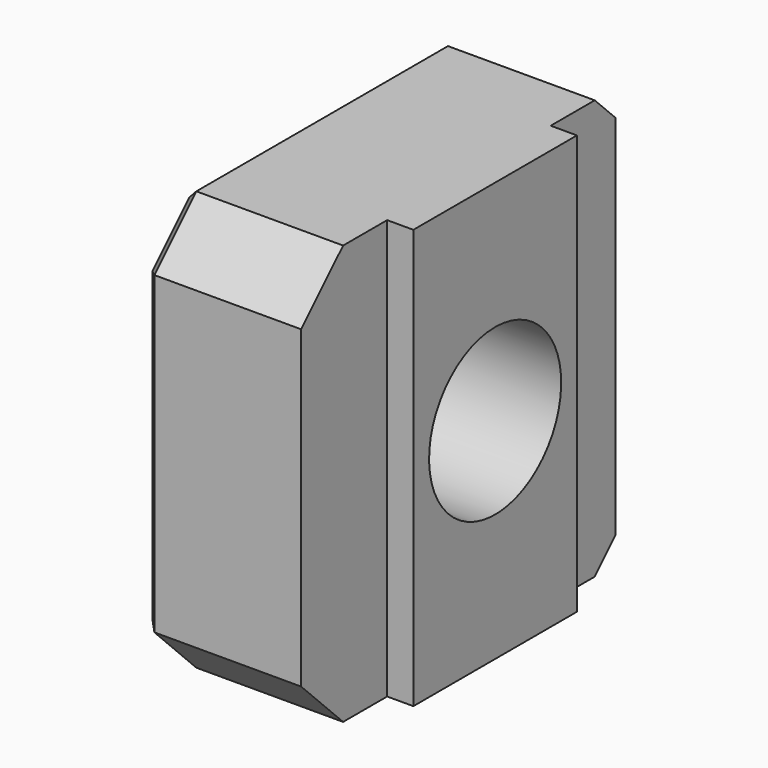
from build123d import *

# Parameters (mm, degrees)
BOX033_W              = 10
BOX033_H              = 10
BOX033_DEPTH          = 18
CYLINDER011_R         = 3.15
CYLINDER011_DEPTH     = 10
CYLINDER012_R         = 6
CYLINDER012_DEPTH     = 10
BOX026_W              = 6
BOX026_H              = 16
BOX026_DEPTH          = 16
BOX027_W              = 1
BOX027_H              = 7.8
BOX027_DEPTH          = 16
CHAMFER006006011_SIZE = 0.99
CHAMFER006006012_SIZE = 2
CHAMFER006006013_SIZE = 0.4


with BuildPart() as cube032:
    # Box033 → Box033 (new body)
    with BuildSketch(Plane(origin=(-3.5, 22, -12.5), x_dir=(1, 0, 0), z_dir=(0, 0, 1))):
        with Locations((5, 5)):
            Rectangle(BOX033_W, BOX033_H)
    extrude(amount=BOX033_DEPTH)


with BuildPart() as cylinder011:
    # Cylinder011 → Cylinder011 (new body)
    with BuildSketch(Plane(origin=(2, 15, 8), x_dir=(0, 0, 1), z_dir=(-1, 0, 0))):
        Circle(CYLINDER011_R)
    extrude(amount=CYLINDER011_DEPTH)


with BuildPart() as fusion005:
    # Cylinder012 → Cylinder012 (new body)
    with BuildSketch(Plane(origin=(-5, 15, 8), x_dir=(0, 0, 1), z_dir=(-1, 0, 0))):
        Circle(CYLINDER012_R)
    extrude(amount=CYLINDER012_DEPTH)

    # Fusion005: union Cylinder011
    add(cylinder011.part)


with BuildPart() as cube025:
    # Box026 → Box026 (new body)
    with BuildSketch(Plane(origin=(-6, 7, 0), x_dir=(1, 0, 0), z_dir=(0, 0, 1))):
        with Locations((3, 8)):
            Rectangle(BOX026_W, BOX026_H)
    extrude(amount=BOX026_DEPTH)


with BuildPart() as cut002004005004:
    # Box027 → Box027 (new body)
    with BuildSketch(Plane(origin=(0, 11.1, 0), x_dir=(1, 0, 0), z_dir=(0, 0, 1))):
        with Locations((0.5, 3.9)):
            Rectangle(BOX027_W, BOX027_H)
    extrude(amount=BOX027_DEPTH)

    # Fusion006: union Cube025
    add(cube025.part)

    # Cut002004002: cut Fusion005
    add(fusion005.part, mode=Mode.SUBTRACT)

    # Chamfer006006011
    chamfer006006011_edges = [cut002004005004.edges().sort_by_distance(p)[0] for p in [
        (-6, 15, 2),
    ]]
    chamfer(chamfer006006011_edges, length=CHAMFER006006011_SIZE)

    # Chamfer006006012
    chamfer006006012_edges = [cut002004005004.edges().sort_by_distance(p)[0] for p in [
        (-3, 7, 0),
        (-3, 7, 16),
        (-3, 23, 16),
        (-3, 23, 0),
    ]]
    chamfer(chamfer006006012_edges, length=CHAMFER006006012_SIZE)

    # Chamfer006006013
    chamfer006006013_edges = [cut002004005004.edges().sort_by_distance(p)[0] for p in [
        (-6, 7, 8),
        (-6, 8, 1),
        (-6, 15, 0),
        (-6, 22, 1),
        (-6, 23, 8),
        (-6, 22, 15),
        (-6, 15, 16),
        (-6, 8, 15),
    ]]
    chamfer(chamfer006006013_edges, length=CHAMFER006006013_SIZE)


with BuildPart() as cut002004005004_1:
    # Chamfer006006013 placement: moved
    add(cut002004005004.part.moved(Location((0, 0, -11))))

    # Cut002004005004: cut Cube032
    add(cube032.part, mode=Mode.SUBTRACT)


solid = cut002004005004_1.part
